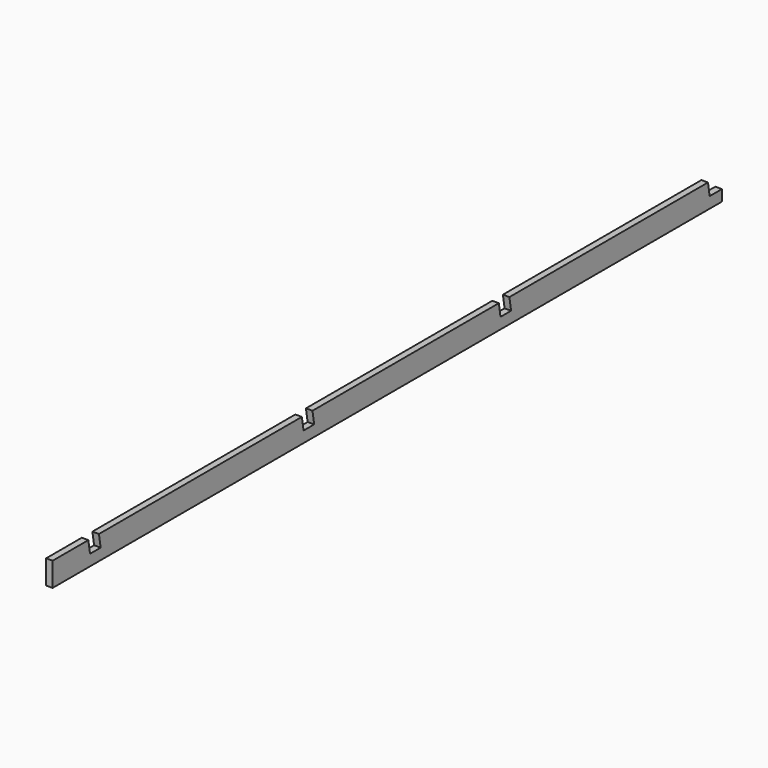
from build123d import *

# Parameters (mm, degrees)
F0_W     = 38.1
F0_H     = 139.7
F1_DEPTH = 4876.8
F3_DEPTH = 254


with BuildPart() as f1:
    # F0 (on Front) → F1 (new body)
    with BuildSketch(Plane.XZ):
        Rectangle(F0_W, F0_H)
    extrude(amount=F1_DEPTH)

    # F2 (on face) → F3 (cut)
    with BuildSketch(Plane(origin=(-19.05, 0, 0), x_dir=(0, -1, 0), z_dir=(-1, 0, 0))):
        Polygon((1625.6, 69.85), (1548.385065, 69.85), (1536.070854, -5.348406), (1613.285789, -5.348406), align=None)
        Polygon((3060.7, 69.85), (2983.485065, 69.85), (2971.170854, -5.348406), (3048.385789, -5.348406), align=None)
        Polygon((4616.45, 69.85), (4539.235065, 69.85), (4526.920854, -5.348406), (4604.135789, -5.348406), align=None)
        Polygon((89.285789, -5.348406), (101.6, 69.85), (0, 69.85), (0, -5.348406), align=None)
    extrude(amount=-F3_DEPTH, mode=Mode.SUBTRACT)


solid = f1.part
